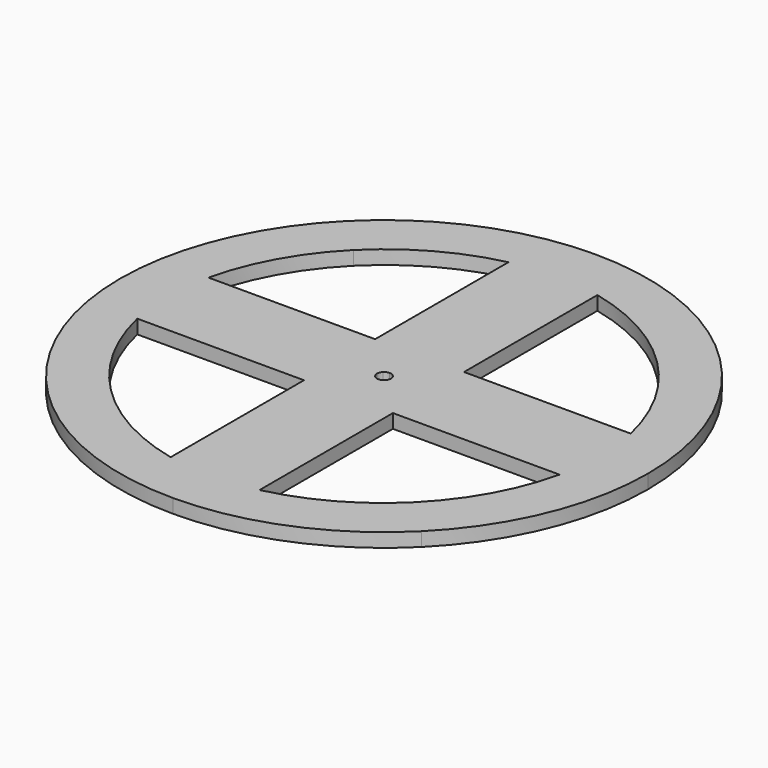
from build123d import *

# Parameters (mm, degrees)
F1_DEPTH = 3.175


with BuildPart() as f1:
    # F0 (on Top) → F1 (new body)
    with BuildSketch(Plane.XY):
        with BuildLine():
            Line((34.677494, 34.677494), (42.656217, 42.656217))
            ThreePointArc((42.656217, 42.656217), (23.085378, 55.733033), (0, 60.325))
            Line((0, 60.325), (0, 48.26))
            Line((0, 48.26), (10.16, 48.26))
            ThreePointArc((10.16, 48.26), (23.374034, 43.193116), (34.677494, 34.677494))
        make_face()
        with BuildLine():
            Line((48.26, 0), (60.325, 0))
            ThreePointArc((60.325, 0), (55.733033, 23.085378), (42.656217, 42.656217))
            Line((42.656217, 42.656217), (34.677494, 34.677494))
            ThreePointArc((34.677494, 34.677494), (43.193116, 23.374034), (48.26, 10.16))
            Line((48.26, 10.16), (48.26, 0))
        make_face()
        with BuildLine():
            Line((0, 48.26), (0, 60.325))
            ThreePointArc((0, 60.325), (-23.085378, 55.733033), (-42.656217, 42.656217))
            Line((-42.656217, 42.656217), (-34.677494, 34.677494))
            ThreePointArc((-34.677494, 34.677494), (-23.374034, 43.193116), (-10.16, 48.26))
            Line((-10.16, 48.26), (0, 48.26))
        make_face()
        with BuildLine():
            Line((-34.677494, 34.677494), (-42.656217, 42.656217))
            ThreePointArc((-42.656217, 42.656217), (-55.733033, 23.085378), (-60.325, 0))
            Line((-60.325, 0), (-48.26, 0))
            Line((-48.26, 0), (-48.26, 10.16))
            ThreePointArc((-48.26, 10.16), (-43.193116, 23.374034), (-34.677494, 34.677494))
        make_face()
        with BuildLine():
            Line((0, 17.78), (0, 48.26))
            Line((0, 48.26), (-10.16, 48.26))
            Line((-10.16, 48.26), (-10.16, 14.591189))
            ThreePointArc((-10.16, 14.591189), (-5.324334, 16.964076), (0, 17.78))
        make_face()
        with BuildLine():
            Line((10.16, 48.26), (0, 48.26))
            Line((0, 48.26), (0, 17.78))
            ThreePointArc((0, 17.78), (5.324334, 16.964076), (10.16, 14.591189))
            Line((10.16, 14.591189), (10.16, 48.26))
        make_face()
        with BuildLine():
            ThreePointArc((10.16, 14.591189), (5.324334, 16.964076), (0, 17.78))
            Line((0, 17.78), (0, 10.16))
            Line((0, 10.16), (10.16, 10.16))
            Line((10.16, 10.16), (10.16, 14.591189))
        make_face()
        with BuildLine():
            Line((0, 10.16), (0, 17.78))
            ThreePointArc((0, 17.78), (-5.324334, 16.964076), (-10.16, 14.591189))
            Line((-10.16, 14.591189), (-10.16, 10.16))
            Line((-10.16, 10.16), (0, 10.16))
        make_face()
        with BuildLine():
            Line((0, 1.5875), (0, 10.16))
            Line((0, 10.16), (-10.16, 10.16))
            Line((-10.16, 10.16), (-1.122532, 1.122532))
            ThreePointArc((-1.122532, 1.122532), (-0.60751, 1.466659), (0, 1.5875))
        make_face()
        with BuildLine():
            Line((-1.122532, 1.122532), (-10.16, 10.16))
            Line((-10.16, 10.16), (-10.16, 0))
            Line((-10.16, 0), (-1.5875, 0))
            ThreePointArc((-1.5875, 0), (-1.466659, 0.60751), (-1.122532, 1.122532))
        make_face()
        with BuildLine():
            ThreePointArc((-14.591189, 10.16), (-16.964076, 5.324334), (-17.78, 0))
            Line((-17.78, 0), (-10.16, 0))
            Line((-10.16, 0), (-10.16, 10.16))
            Line((-10.16, 10.16), (-14.591189, 10.16))
        make_face()
        with BuildLine():
            Line((10.16, 0), (17.78, 0))
            ThreePointArc((17.78, 0), (16.964076, 5.324334), (14.591189, 10.16))
            Line((14.591189, 10.16), (10.16, 10.16))
            Line((10.16, 10.16), (10.16, 0))
        make_face()
        with BuildLine():
            Line((1.122532, 1.122532), (10.16, 10.16))
            Line((10.16, 10.16), (0, 10.16))
            Line((0, 10.16), (0, 1.5875))
            ThreePointArc((0, 1.5875), (0.60751, 1.466659), (1.122532, 1.122532))
        make_face()
        with BuildLine():
            Line((1.5875, 0), (10.16, 0))
            Line((10.16, 0), (10.16, 10.16))
            Line((10.16, 10.16), (1.122532, 1.122532))
            ThreePointArc((1.122532, 1.122532), (1.466659, 0.60751), (1.5875, 0))
        make_face()
        with BuildLine():
            Line((-10.16, 0), (-17.78, 0))
            ThreePointArc((-17.78, 0), (-16.964076, -5.324334), (-14.591189, -10.16))
            Line((-14.591189, -10.16), (-10.16, -10.16))
            Line((-10.16, -10.16), (-10.16, 0))
        make_face()
        with BuildLine():
            Line((-10.16, -10.16), (0, -10.16))
            Line((0, -10.16), (0, -1.5875))
            ThreePointArc((0, -1.5875), (-0.60751, -1.466659), (-1.122532, -1.122532))
            Line((-1.122532, -1.122532), (-10.16, -10.16))
        make_face()
        with BuildLine():
            ThreePointArc((-10.16, -14.591189), (-5.324334, -16.964076), (0, -17.78))
            Line((0, -17.78), (0, -10.16))
            Line((0, -10.16), (-10.16, -10.16))
            Line((-10.16, -10.16), (-10.16, -14.591189))
        make_face()
        with BuildLine():
            Line((0, -10.16), (0, -17.78))
            ThreePointArc((0, -17.78), (5.324334, -16.964076), (10.16, -14.591189))
            Line((10.16, -14.591189), (10.16, -10.16))
            Line((10.16, -10.16), (0, -10.16))
        make_face()
        with BuildLine():
            Line((0, -10.16), (10.16, -10.16))
            Line((10.16, -10.16), (1.122532, -1.122532))
            ThreePointArc((1.122532, -1.122532), (0.60751, -1.466659), (0, -1.5875))
            Line((0, -1.5875), (0, -10.16))
        make_face()
        with BuildLine():
            ThreePointArc((14.591189, -10.16), (16.964076, -5.324334), (17.78, 0))
            Line((17.78, 0), (10.16, 0))
            Line((10.16, 0), (10.16, -10.16))
            Line((10.16, -10.16), (14.591189, -10.16))
        make_face()
        with BuildLine():
            Line((17.78, 0), (48.26, 0))
            Line((48.26, 0), (48.26, 10.16))
            Line((48.26, 10.16), (14.591189, 10.16))
            ThreePointArc((14.591189, 10.16), (16.964076, 5.324334), (17.78, 0))
        make_face()
        with BuildLine():
            Line((48.26, -10.16), (48.26, 0))
            Line((48.26, 0), (17.78, 0))
            ThreePointArc((17.78, 0), (16.964076, -5.324334), (14.591189, -10.16))
            Line((14.591189, -10.16), (48.26, -10.16))
        make_face()
        with BuildLine():
            Line((-48.26, 10.16), (-48.26, 0))
            Line((-48.26, 0), (-17.78, 0))
            ThreePointArc((-17.78, 0), (-16.964076, 5.324334), (-14.591189, 10.16))
            Line((-14.591189, 10.16), (-48.26, 10.16))
        make_face()
        with BuildLine():
            Line((-17.78, 0), (-48.26, 0))
            Line((-48.26, 0), (-48.26, -10.16))
            Line((-48.26, -10.16), (-14.591189, -10.16))
            ThreePointArc((-14.591189, -10.16), (-16.964076, -5.324334), (-17.78, 0))
        make_face()
        with BuildLine():
            Line((-10.16, -48.26), (0, -48.26))
            Line((0, -48.26), (0, -17.78))
            ThreePointArc((0, -17.78), (-5.324334, -16.964076), (-10.16, -14.591189))
            Line((-10.16, -14.591189), (-10.16, -48.26))
        make_face()
        with BuildLine():
            Line((0, -17.78), (0, -48.26))
            Line((0, -48.26), (10.16, -48.26))
            Line((10.16, -48.26), (10.16, -14.591189))
            ThreePointArc((10.16, -14.591189), (5.324334, -16.964076), (0, -17.78))
        make_face()
        with BuildLine():
            ThreePointArc((42.656217, -42.656217), (55.733033, -23.085378), (60.325, 0))
            Line((60.325, 0), (48.26, 0))
            Line((48.26, 0), (48.26, -10.16))
            ThreePointArc((48.26, -10.16), (43.193116, -23.374034), (34.677494, -34.677494))
            Line((34.677494, -34.677494), (42.656217, -42.656217))
        make_face()
        with BuildLine():
            ThreePointArc((0, -60.325), (23.085378, -55.733033), (42.656217, -42.656217))
            Line((42.656217, -42.656217), (34.677494, -34.677494))
            ThreePointArc((34.677494, -34.677494), (23.374034, -43.193116), (10.16, -48.26))
            Line((10.16, -48.26), (0, -48.26))
            Line((0, -48.26), (0, -60.325))
        make_face()
        with BuildLine():
            ThreePointArc((-42.656217, -42.656217), (-23.085378, -55.733033), (0, -60.325))
            Line((0, -60.325), (0, -48.26))
            Line((0, -48.26), (-10.16, -48.26))
            ThreePointArc((-10.16, -48.26), (-23.374034, -43.193116), (-34.677494, -34.677494))
            Line((-34.677494, -34.677494), (-42.656217, -42.656217))
        make_face()
        with BuildLine():
            ThreePointArc((-60.325, 0), (-55.733033, -23.085378), (-42.656217, -42.656217))
            Line((-42.656217, -42.656217), (-34.677494, -34.677494))
            ThreePointArc((-34.677494, -34.677494), (-43.193116, -23.374034), (-48.26, -10.16))
            Line((-48.26, -10.16), (-48.26, 0))
            Line((-48.26, 0), (-60.325, 0))
        make_face()
        with BuildLine():
            Line((10.16, -10.16), (10.16, 0))
            Line((10.16, 0), (1.5875, 0))
            ThreePointArc((1.5875, 0), (1.466659, -0.60751), (1.122532, -1.122532))
            Line((1.122532, -1.122532), (10.16, -10.16))
        make_face()
        with BuildLine():
            Line((-10.16, 0), (-10.16, -10.16))
            Line((-10.16, -10.16), (-1.122532, -1.122532))
            ThreePointArc((-1.122532, -1.122532), (-1.466659, -0.60751), (-1.5875, 0))
            Line((-1.5875, 0), (-10.16, 0))
        make_face()
    extrude(amount=F1_DEPTH)


solid = f1.part
